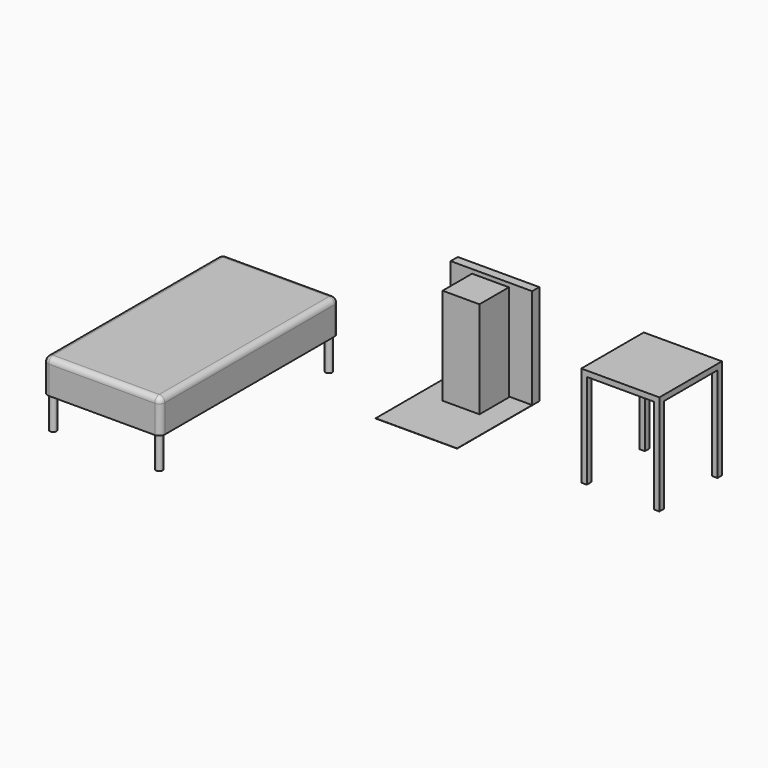
from build123d import *

# Parameters (mm, degrees)
F0_W      = 1050
F0_H      = 2000
F0_R      = 30
F1_DEPTH  = 300
F2_DEPTH  = 290
F3_R      = 50
F0_W_2    = 330
F0_H_2    = 330
F4_DEPTH  = 870
F0_W_3    = 730
F0_H_3    = 840
F5_DEPTH  = 2
F0_H_4    = 80
F6_DEPTH  = 900
F8_W      = 50
F8_H      = 50
F9_DEPTH  = 50
F10_DEPTH = 900


with BuildPart() as f1:
    # F0 (on Top) → F1 (new body)
    with BuildSketch(Plane.XY):
        with Locations((-1025, -1000)):
            Rectangle(F0_W, F0_H)
        with Locations((-1500, -1950)):
            Circle(F0_R, mode=Mode.SUBTRACT)
        with Locations((-550, -1950)):
            Circle(F0_R, mode=Mode.SUBTRACT)
        with Locations((-1500, -50)):
            Circle(F0_R, mode=Mode.SUBTRACT)
        with Locations((-550, -50)):
            Circle(F0_R, mode=Mode.SUBTRACT)
        with Locations((-1500, -50)):
            Circle(F0_R)
        with Locations((-550, -50)):
            Circle(F0_R)
        with Locations((-550, -1950)):
            Circle(F0_R)
        with Locations((-1500, -1950)):
            Circle(F0_R)
    extrude(amount=F1_DEPTH)

    # F0 (on Top) → F2 (join)
    with BuildSketch(Plane.XY):
        with Locations((-550, -50)):
            Circle(F0_R)
        with Locations((-1500, -50)):
            Circle(F0_R)
        with Locations((-1500, -1950)):
            Circle(F0_R)
        with Locations((-550, -1950)):
            Circle(F0_R)
    extrude(amount=-F2_DEPTH)

    # F3
    f3_edges = [f1.edges().sort_by_distance(p)[0] for p in [
        (-1550, 0, 150),
        (-1550, -2000, 150),
        (-500, -2000, 150),
        (-500, 0, 150),
        (-500, -1000, 300),
        (-1025, 0, 300),
        (-1550, -1000, 300),
        (-1025, -2000, 300),
    ]]
    fillet(f3_edges, radius=F3_R)


with BuildPart() as f4:
    # F0 (on Top) → F4 (new body)
    with BuildSketch(Plane.XY):
        with Locations((865, -175)):
            Rectangle(F0_W_2, F0_H_2)
    extrude(amount=F4_DEPTH)

    # F0 (on Top) → F5 (join)
    with BuildSketch(Plane.XY):
        with Locations((865, -420)):
            Rectangle(F0_W_3, F0_H_3)
        with Locations((865, -175)):
            Rectangle(F0_W_2, F0_H_2, mode=Mode.SUBTRACT)
    extrude(amount=F5_DEPTH)

    # F0 (on Top) → F6 (join)
    with BuildSketch(Plane.XY):
        with Locations((865, 40)):
            Rectangle(F0_W_3, F0_H_4)
    extrude(amount=F6_DEPTH)


with BuildPart() as f9:
    # F8 (on offset) → F9 (new body)
    with BuildSketch(Plane.XY.offset(900)):
        Polygon((2880, 0), (2280, 0), (2280, -50), (2230, -50), (2230, -650), (2280, -650), (2280, -700), (2880, -700), (2880, -650), (2930, -650), (2930, -50), (2880, -50), align=None)
        with Locations((2255, -25)):
            Rectangle(F8_W, F8_H)
        with Locations((2905, -25)):
            Rectangle(F8_W, F8_H)
        with Locations((2905, -675)):
            Rectangle(F8_W, F8_H)
        with Locations((2255, -675)):
            Rectangle(F8_W, F8_H)
    extrude(amount=-F9_DEPTH)

    # F8 (on offset) → F10 (join, through all)
    with BuildSketch(Plane.XY.offset(900)):
        with Locations((2255, -675)):
            Rectangle(F8_W, F8_H)
        with Locations((2905, -675)):
            Rectangle(F8_W, F8_H)
        with Locations((2255, -25)):
            Rectangle(F8_W, F8_H)
        with Locations((2905, -25)):
            Rectangle(F8_W, F8_H)
    extrude(amount=-F10_DEPTH)


solid = Compound([f1.part, f4.part, f9.part])
